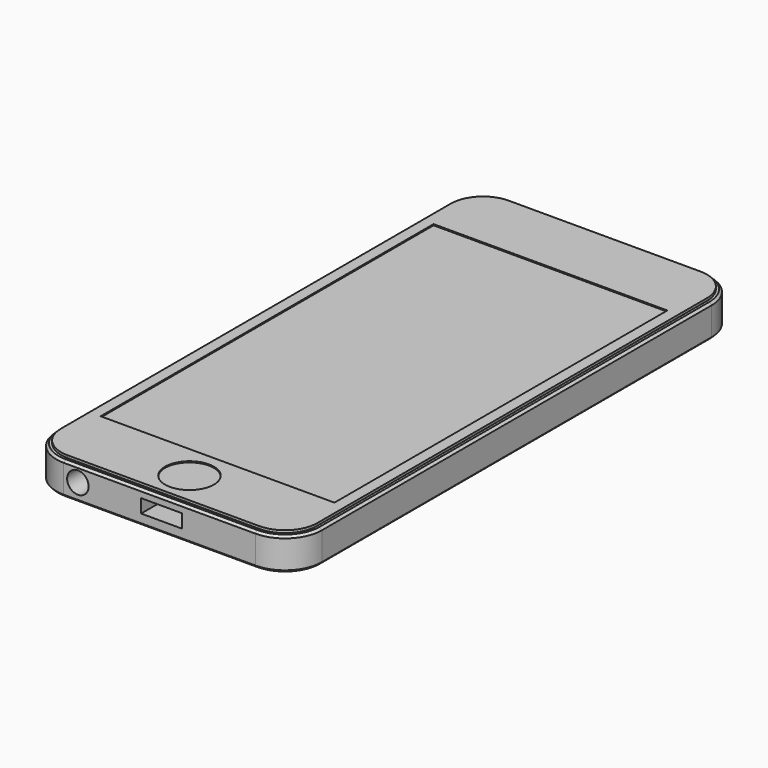
from build123d import *

# Parameters (mm, degrees)
F0_W      = 58.7
F0_H      = 124
F1_DEPTH  = 7.75
F5_R      = 8.15
F4_R      = 2.374986
F7_DEPTH  = 13
F8_DEPTH  = 0.9
F3_R      = 2.275
F3_W      = 5.8
F3_H      = 1.35
F9_DEPTH  = 0.9
F10_DEPTH = 0.9
F4_W      = 9
F4_H      = 3
F11_DEPTH = 12
F2_R      = 5.4
F12_DEPTH = 0.25
F14_DEPTH = 0.55
F15_SIZE  = 0.5
F2_W      = 51.7
F2_H      = 92
F16_DEPTH = 0.25


with BuildPart() as f1:
    # F0 (on Top) → F1 (new body)
    with BuildSketch(Plane.XY):
        with Locations((59.907148, 62)):
            Rectangle(F0_W, F0_H)
    extrude(amount=F1_DEPTH)

    # F5
    f5_edges = [f1.edges().sort_by_distance(p)[0] for p in [
        (30.557148, 124, 3.875),
        (89.257148, 124, 3.875),
        (30.557148, 0, 3.875),
        (89.257148, 0, 3.875),
    ]]
    fillet(f5_edges, radius=F5_R)

    # F4 (on face) → F7 (cut)
    with BuildSketch(Plane.XZ):
        with Locations((41.832148, 3.875)):
            Circle(F4_R)
    extrude(amount=-F7_DEPTH, mode=Mode.SUBTRACT)

    # F6 (on face) → F8 (join)
    with BuildSketch(Plane(origin=(0, 124, 0), x_dir=(-1, 0, 0), z_dir=(0, 1, 0))):
        with BuildLine():
            Line((-70.657148, 4.975), (-78.507148, 4.975))
            ThreePointArc((-78.507148, 4.975), (-79.607148, 3.875), (-78.507148, 2.775))
            Line((-78.507148, 2.775), (-70.657148, 2.775))
            ThreePointArc((-70.657148, 2.775), (-69.557148, 3.875), (-70.657148, 4.975))
        make_face()
    extrude(amount=F8_DEPTH)

    # F3 (on face) → F9 (join)
    with BuildSketch(Plane(origin=(30.557148, 0, 0), x_dir=(0, -1, 0), z_dir=(-1, 0, 0))):
        with Locations((-93.525, 3.875)):
            Circle(F3_R)
        with BuildLine():
            ThreePointArc((-80.7, 3.875), (-82.975, 6.15), (-85.25, 3.875))
            ThreePointArc((-85.25, 3.875), (-82.975, 1.6), (-80.7, 3.875))
        make_face()
        with Locations((-104.8, 4.55)):
            Rectangle(F3_W, F3_H)
    extrude(amount=F9_DEPTH)

    # F3 (on face) → F10 (cut)
    with BuildSketch(Plane(origin=(30.557148, 0, 0), x_dir=(0, -1, 0), z_dir=(-1, 0, 0))):
        with Locations((-104.8, 3.2)):
            Rectangle(F3_W, F3_H)
    extrude(amount=-F10_DEPTH, mode=Mode.SUBTRACT)

    # F4 (on face) → F11 (cut)
    with BuildSketch(Plane.XZ):
        with Locations((60.307148, 3.889738)):
            Rectangle(F4_W, F4_H)
    extrude(amount=-F11_DEPTH, mode=Mode.SUBTRACT)

    # F2 (on face) → F12 (cut)
    with BuildSketch(Plane.XY.offset(7.75)):
        with Locations((59.907148, 8.25)):
            Circle(F2_R)
    extrude(amount=-F12_DEPTH, mode=Mode.SUBTRACT)

    # F13 (on face) → F14 (cut)
    with BuildSketch(Plane.XY.offset(7.75)):
        with BuildLine():
            Line((38.707148, 0), (81.107148, 0))
            ThreePointArc((81.107148, 0), (86.870068, 2.38708), (89.257148, 8.15))
            Line((89.257148, 8.15), (89.257148, 115.85))
            ThreePointArc((89.257148, 115.85), (86.870068, 121.61292), (81.107148, 124))
            Line((81.107148, 124), (38.707148, 124))
            ThreePointArc((38.707148, 124), (32.944228, 121.61292), (30.557148, 115.85))
            Line((30.557148, 115.85), (30.557148, 8.15))
            ThreePointArc((30.557148, 8.15), (32.944228, 2.38708), (38.707148, 0))
        make_face()
        with BuildLine():
            Line((88.207148, 115.85), (88.207148, 8.15))
            ThreePointArc((88.207148, 8.15), (86.127606, 3.129542), (81.107148, 1.05))
            Line((81.107148, 1.05), (38.707148, 1.05))
            ThreePointArc((38.707148, 1.05), (33.68669, 3.129542), (31.607148, 8.15))
            Line((31.607148, 8.15), (31.607148, 115.85))
            ThreePointArc((31.607148, 115.85), (33.68669, 120.870458), (38.707148, 122.95))
            Line((38.707148, 122.95), (81.107148, 122.95))
            ThreePointArc((81.107148, 122.95), (86.127606, 120.870458), (88.207148, 115.85))
        make_face(mode=Mode.SUBTRACT)
    extrude(amount=-F14_DEPTH, mode=Mode.SUBTRACT)

    # F15
    f15_edges = [f1.edges().sort_by_distance(p)[0] for p in [
        (59.907148, 124, 7.2),
        (86.870068, 121.61292, 7.2),
        (89.257148, 62, 7.2),
        (86.870068, 2.38708, 7.2),
        (59.907148, 0, 7.2),
        (32.944228, 2.38708, 7.2),
        (30.557148, 62, 7.2),
        (32.944228, 121.61292, 7.2),
        (89.257148, 62, 0),
    ]]
    chamfer(f15_edges, length=F15_SIZE)

    # F2 (on face) → F16 (cut)
    with BuildSketch(Plane.XY.offset(7.75)):
        with Locations((59.907148, 62)):
            Rectangle(F2_W, F2_H)
    extrude(amount=-F16_DEPTH, mode=Mode.SUBTRACT)


solid = f1.part
